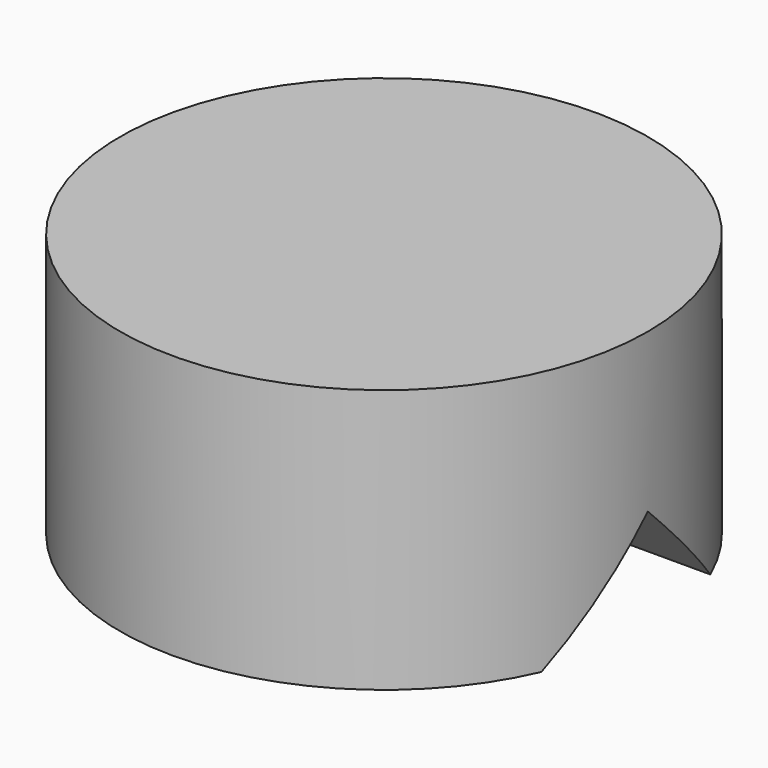
from build123d import *

# Parameters (mm, degrees)
F0_R     = 6.35
F1_DEPTH = 6.35
F2_R     = 1.27
F7_DEPTH = 12.7


with BuildPart() as f1:
    # F0 (on Top) → F1 (new body)
    with BuildSketch(Plane.XY):
        Circle(F0_R)
    extrude(amount=F1_DEPTH)

    # F2 (on Top) → F5 section 0
    with BuildSketch(Plane.XY, mode=Mode.PRIVATE) as f5_s0:
        Circle(F2_R)
    loft([Vertex(0, 0, -2.54), f5_s0.sketch], mode=Mode.SUBTRACT)

    # F6 (on Right) → F7 (cut, symmetric)
    with BuildSketch(Plane.YZ):
        Polygon((0, -2.54), (2.54, 0), (0, 2.54), (-2.54, 0), align=None)
    extrude(amount=F7_DEPTH, both=True, mode=Mode.SUBTRACT)


solid = f1.part
